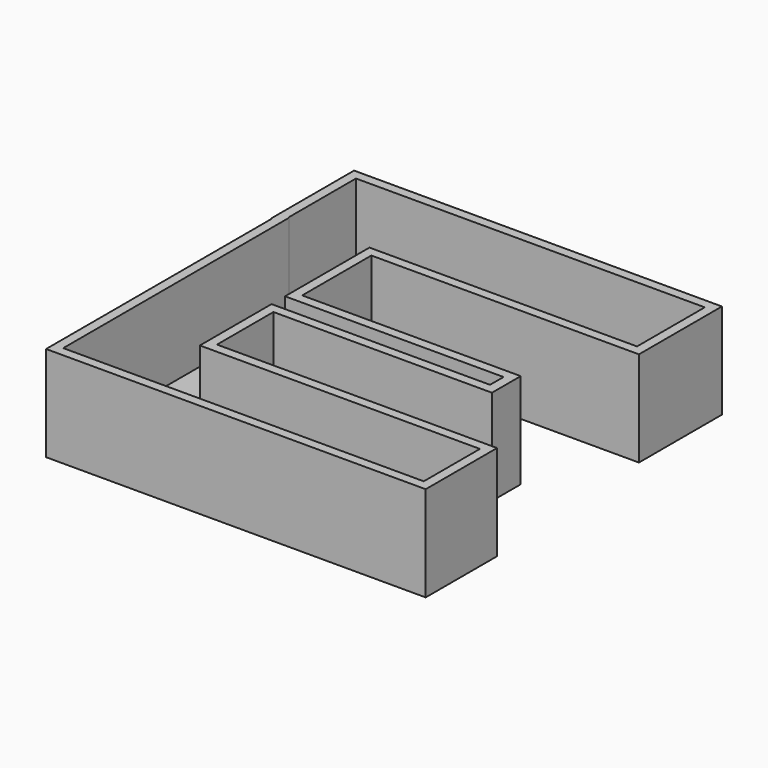
from build123d import *

# Parameters (mm, degrees)
F0_W     = 74.6637145057
F0_H     = 23.7817782909
F0_W_2   = 58.2561278716
F0_H_2   = 9.5864515752
F1_DEPTH = 25.4
F2_T     = -2.54


with BuildPart() as f1:
    # F0 (on Top) → F1 (new body)
    with BuildSketch(Plane.XY):
        Polygon((60.7449188828, 55.3986318409), (-37.3318567872, 55.3986318409), (-37.3318567872, 27.7454033494), (-37.1474996209, 27.7454033494), (-10.6004038826, 27.7454033494), (60.7449188828, 27.7454033494), align=None)
        Polygon((-10.6004038826, 27.7454033494), (-37.1474996209, 27.7454033494), (-37.1474996209, -47.4713742733), (-10.6004038826, -47.4713742733), (-10.6004038826, -23.6895959824), (-10.6004038826, -4.8854034394), (-10.6004038826, 4.7010481358), align=None)
        with Locations((26.7314533703, -35.5804851279)):
            Rectangle(F0_W, F0_H)
        with Locations((18.5276600532, -0.0921776518)):
            Rectangle(F0_W_2, F0_H_2)
    extrude(amount=F1_DEPTH)

    # F2
    f2_openings = [f1.faces().sort_by_distance(p)[0] for p in [
        (5.947866, 4.234734, 25.4),
    ]]
    offset(amount=F2_T, openings=f2_openings, kind=Kind.INTERSECTION)


solid = f1.part
